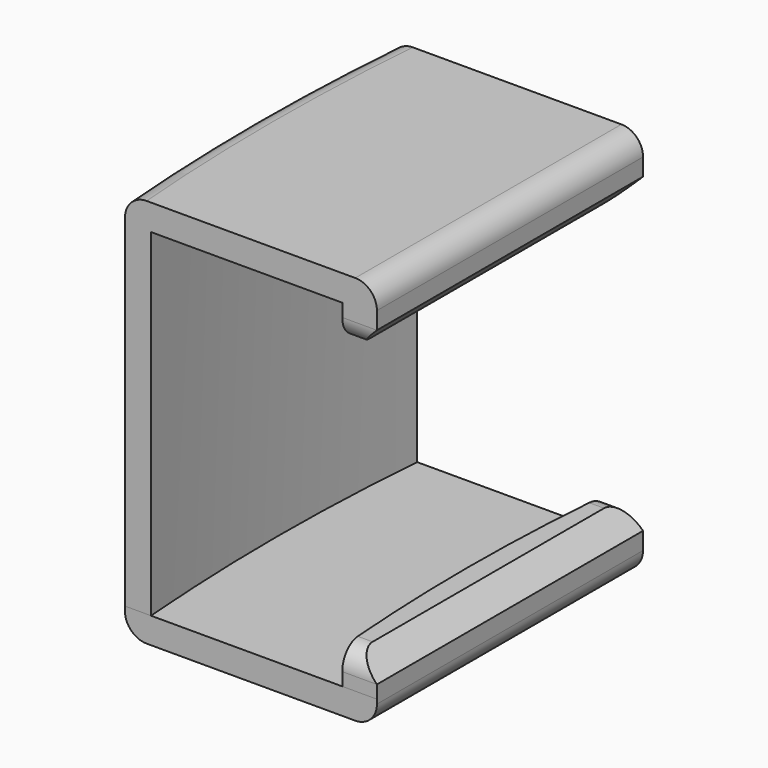
from build123d import *

# Parameters (mm, degrees)
PAD011_DEPTH    = 1.2
PAD012_DEPTH    = 15.6
PAD013_DEPTH    = 1.2
PAD014_DEPTH    = 1.6
PAD015_DEPTH    = 1.6
CHAMFER004_SIZE = 1
FILLET002_R     = 1


with BuildPart() as part:
    # Sketch018 → Pad011 (new body)
    with BuildSketch(Plane.XY):
        with BuildLine():
            ThreePointArc((-94.2875364362, 7.682478298), (-94.6, 0), (-94.2875364362, -7.682478298))
            Line((-94.2875364362, -7.682478298), (-82.6504571335, -7.6824782979))
            Line((-82.6504571335, 7.682478298), (-82.6504571335, -7.6824782979))
            Line((-94.2875364362, 7.682478298), (-82.6504571335, 7.682478298))
        make_face()
    extrude(amount=PAD011_DEPTH)

    # Sketch019 → Pad012 (join)
    with BuildSketch(Plane.XY.offset(1.2)):
        with BuildLine():
            ThreePointArc((-94.2875364362, 7.682478298), (-94.6, 0), (-94.2875364362, -7.682478298))
            Line((-93.0835083525, -7.682478298), (-94.2875364362, -7.682478298))
            ThreePointArc((-93.0835083525, 7.682478298), (-93.4, 0), (-93.0835083525, -7.682478298))
            Line((-94.2875364362, 7.682478298), (-93.0835083525, 7.682478298))
        make_face()
    extrude(amount=PAD012_DEPTH)

    # Sketch020 → Pad013 (join)
    with BuildSketch(Plane.XY.offset(16.8)):
        with BuildLine():
            ThreePointArc((-94.2875364362, 7.682478298), (-94.6, 0), (-94.2875364362, -7.682478298))
            Line((-94.2875364362, -7.682478298), (-82.6504571335, -7.682478298))
            Line((-82.6504571335, 7.682478298), (-82.6504571335, -7.682478298))
            Line((-94.2875364362, 7.682478298), (-82.6504571335, 7.682478298))
        make_face()
    extrude(amount=PAD013_DEPTH)

    # Sketch021 → Pad014 (join)
    with BuildSketch(Plane.XY.offset(1.2)):
        with BuildLine():
            ThreePointArc((-84.2504571335, 7.682478298), (-84.6, 0), (-84.2504571335, -7.682478298))
            Line((-82.6504571335, -7.682478298), (-84.2504571335, -7.682478298))
            Line((-82.6504571335, 7.682478298), (-82.6504571335, -7.682478298))
            Line((-84.2504571335, 7.682478298), (-82.6504571335, 7.682478298))
        make_face()
    extrude(amount=PAD014_DEPTH)

    # Sketch022 → Pad015 (join)
    with BuildSketch(Plane.XY.offset(16.8)):
        with BuildLine():
            ThreePointArc((-84.2504571335, 7.682478298), (-84.6, 0), (-84.2504571335, -7.682478298))
            Line((-82.6504571335, -7.682478298), (-84.2504571335, -7.682478298))
            Line((-82.6504571335, 7.682478298), (-82.6504571335, -7.682478298))
            Line((-84.2504571335, 7.682478298), (-82.6504571335, 7.682478298))
        make_face()
    extrude(amount=-PAD015_DEPTH)

    # Chamfer004
    chamfer004_edges = [part.edges().sort_by_distance(p)[0] for p in [
        (-82.650457, 0, 2.8),
        (-82.650457, 0, 15.2),
    ]]
    chamfer(chamfer004_edges, length=CHAMFER004_SIZE)

    # Fillet002
    fillet002_edges = [part.edges().sort_by_distance(p)[0] for p in [
        (-94.6, 0, 18),
        (-94.6, 0, 0),
        (-82.650457, 0, 18),
        (-82.650457, 0, 0),
        (-83.950457, -7.682478, 2.8),
        (-83.950457, 7.682478, 2.8),
        (-83.950457, 7.682478, 15.2),
        (-83.950457, -7.682478, 15.2),
    ]]
    fillet(fillet002_edges, radius=FILLET002_R)


with BuildPart() as part_1:
    # Body005 placement: moved
    add(part.part.moved(Location((0, 0, -1.4))))


solid = part_1.part
